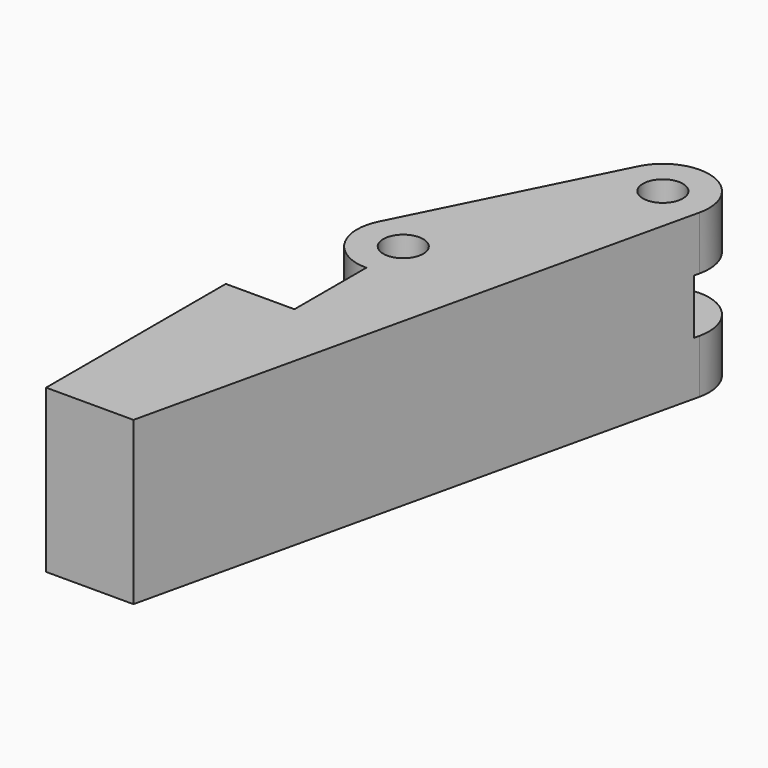
from build123d import *

# Parameters (mm, degrees)
CYLINDER005_R            = 1.6
CYLINDER005_DEPTH        = 30
PAD001_DEPTH             = 13
SKETCH001_W              = 28
SKETCH001_H              = 4.4
POCKET002_DEPTH          = 7.4
CLONE016_PLACEMENT_ANGLE = 180


with BuildPart() as finger_drill_master:
    # Cylinder005 → Cylinder005 (new body)
    with BuildSketch(Plane.XY.offset(-8)):
        Circle(CYLINDER005_R)
    extrude(amount=CYLINDER005_DEPTH)


with BuildPart() as clone001:
    # Clone001 base: copy of finger-drill-master
    add(finger_drill_master.part)


with BuildPart() as clone001_1:
    # Clone001 placement: moved
    add(clone001.part.moved(Location((-5.5, 28.9, 0))))


with BuildPart() as finger_drills:
    # Clone002 base: copy of finger-drill-master
    add(finger_drill_master.part)


with BuildPart() as finger_drills_1:
    # Clone002 placement: moved
    add(finger_drills.part.moved(Location((-13.5, 44.9, 0))))

    # Fusion011: union Clone001
    add(clone001_1.part)


with BuildPart() as right_finger:
    # Sketch007 → Pad001 (new body)
    with BuildSketch(Plane.XY):
        with BuildLine():
            Line((0, 0), (0, 18))
            Line((0, 18), (-5.5, 18))
            Line((-5.5, 18), (-5.5, 25.2))
            ThreePointArc((-5.5, 25.2), (-2.3525883805, 26.9548007564), (-2.1906255667, 30.55470265))
            Line((-10.1906192745, 46.5546900658), (-2.1906255667, 30.55470265))
            ThreePointArc((-10.1906192745, 46.5546900658), (-14.7496924515, 48.3825664066), (-17.1063967324, 44.0730159565))
            Line((-17.1063967324, 44.0730159565), (-7, 0))
            Line((-7, 0), (0, 0))
        make_face()
    extrude(amount=PAD001_DEPTH)

    # Sketch001 → Pocket002 (cut)
    with BuildSketch(Plane(origin=(10.4693806066, 5.2346903033, 0), x_dir=(-0.4472135955, 0.894427191, 0), z_dir=(0.894427191, 0.4472135955, 0))):
        with Locations((37.2528992744, 6.5)):
            Rectangle(SKETCH001_W, SKETCH001_H)
    extrude(amount=-POCKET002_DEPTH, mode=Mode.SUBTRACT)

    # Cut012: cut finger-drills
    add(finger_drills_1.part, mode=Mode.SUBTRACT)


with BuildPart() as right_finger_1:
    # Cut012 placement: moved
    add(right_finger.part.moved(Location((0, -57, 0))))


with BuildPart() as right_finger_2:
    # Clone016 placement: moved
    add(right_finger_1.part.moved(Location((230.4617805391, 242.2542559908, 13))).rotate(Axis((230.4617805391, 242.2542559908, 13), (0, 1, 0)), CLONE016_PLACEMENT_ANGLE))


solid = right_finger_2.part
